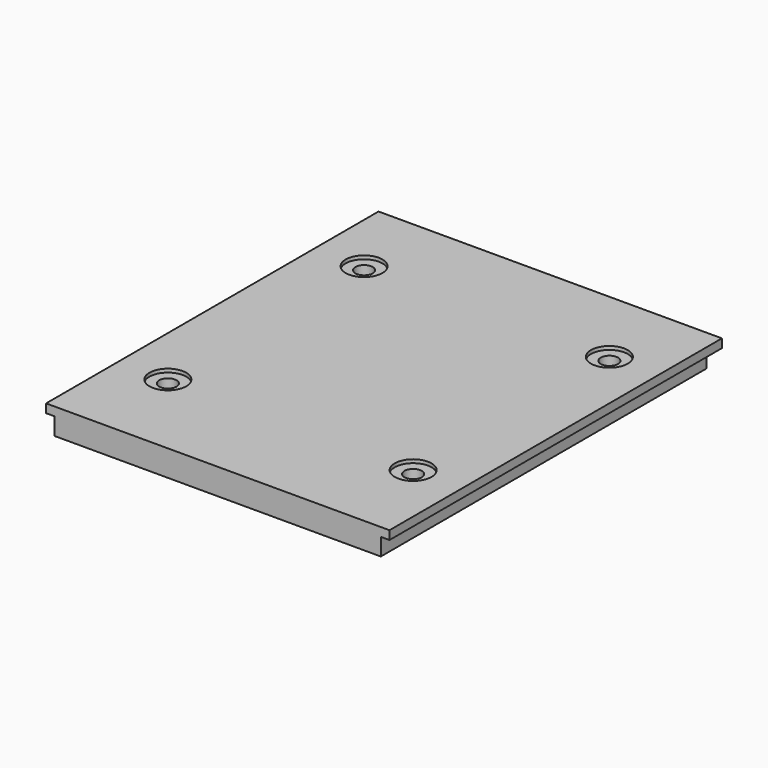
from build123d import *

# Parameters (mm, degrees)
SKETCH016_W     = 238
SKETCH016_H     = 288
PAD006_DEPTH    = 18
SKETCH018_W     = 6
SKETCH018_H     = 12
POCKET010_DEPTH = 238
SKETCH017_W     = 6
SKETCH017_H     = 12
POCKET011_DEPTH = 288
SKETCH019_R     = 6
POCKET012_DEPTH = 18
SKETCH020_R     = 12.75
POCKET013_DEPTH = 2.4


with BuildPart() as part:
    # Sketch016 → Pad006 (new body)
    with BuildSketch(Plane.XY):
        with Locations((0, 144)):
            Rectangle(SKETCH016_W, SKETCH016_H)
    extrude(amount=PAD006_DEPTH)

    # Sketch018 → Pocket010 (cut)
    with BuildSketch(Plane(origin=(-119, 0, 0), x_dir=(0, -1, 0), z_dir=(-1, 0, 0))):
        with Locations((-285, 6)):
            Rectangle(SKETCH018_W, SKETCH018_H)
    extrude(amount=-POCKET010_DEPTH, mode=Mode.SUBTRACT)

    # Sketch017 → Pocket011 (cut)
    with BuildSketch(Plane.XZ):
        with Locations((-116, 6)):
            Rectangle(SKETCH017_W, SKETCH017_H)
    pocket011 = extrude(amount=-POCKET011_DEPTH, mode=Mode.SUBTRACT)

    # Mirrored001: Pocket011 across Sketch017 V_Axis
    add(pocket011.mirror(Plane(origin=(0, 0, 0), x_dir=(0, -1, 0), z_dir=(1, 0, 0))), mode=Mode.SUBTRACT)

    # Sketch019 → Pocket012 (cut)
    with BuildSketch(Plane.XY.offset(18)):
        with Locations((-85, 63)):
            Circle(SKETCH019_R)
        with Locations((-85, 233)):
            Circle(SKETCH019_R)
        with Locations((85, 233)):
            Circle(SKETCH019_R)
        with Locations((85, 63)):
            Circle(SKETCH019_R)
    extrude(amount=-POCKET012_DEPTH, mode=Mode.SUBTRACT)

    # Sketch020 → Pocket013 (cut)
    with BuildSketch(Plane.XY.offset(18)):
        with Locations((-85, 63)):
            Circle(SKETCH020_R)
        with Locations((85, 63)):
            Circle(SKETCH020_R)
        with Locations((85, 233)):
            Circle(SKETCH020_R)
        with Locations((-85, 233)):
            Circle(SKETCH020_R)
    extrude(amount=-POCKET013_DEPTH, mode=Mode.SUBTRACT)


solid = part.part
